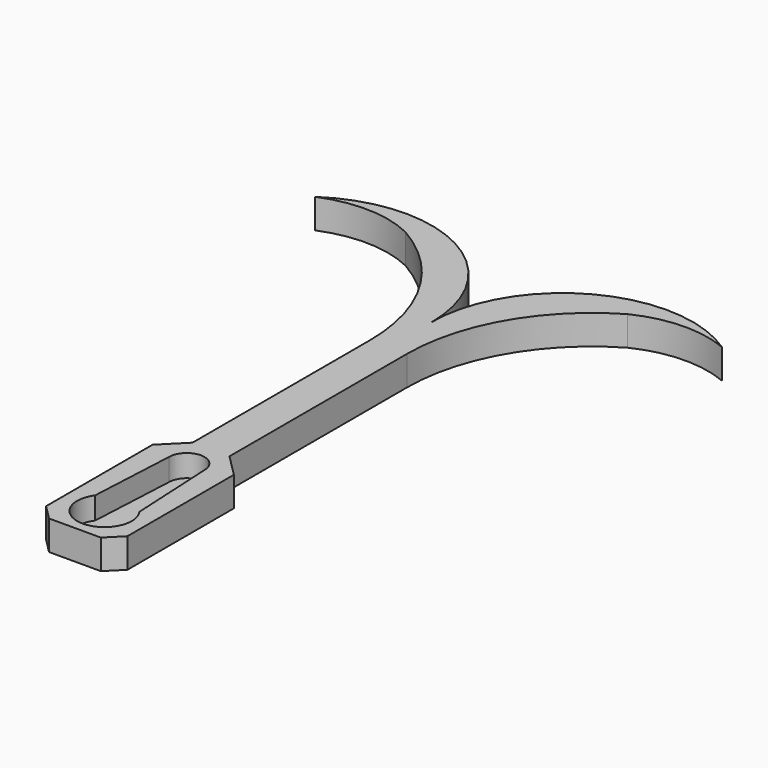
from build123d import *

# Parameters (mm, degrees)
PAD_DEPTH    = 4
POCKET_DEPTH = 3


with BuildPart() as part:
    # Sketch → Pad (new body)
    with BuildSketch(Plane.XY):
        with BuildLine():
            Line((2.5, 18), (2.5, 48))
            ThreePointArc((15.021703, 69.663151), (5.855631, 60.510847), (2.5, 48))
            ThreePointArc((27.5, 70), (21.224622, 71.173643), (15.021703, 69.663151))
            ThreePointArc((27.5, 70), (9.351891, 70.925767), (0, 55.345233))
            ThreePointArc((0, 55.345233), (-9.351891, 70.925767), (-27.5, 70))
            ThreePointArc((-15.021703, 69.663151), (-21.224622, 71.173643), (-27.5, 70))
            ThreePointArc((-2.5, 48), (-5.855631, 60.510847), (-15.021703, 69.663151))
            Line((-2.5, 48), (-2.5, 18))
            Line((-2.5, 18), (-5.5, 15))
            Line((-5.5, 15), (-5.5, -3))
            Line((-5.5, -3), (-3.5, -5))
            Line((-3.5, -5), (3.5, -5))
            Line((3.5, -5), (5.5, -3))
            Line((5.5, -3), (5.5, 15))
            Line((5.5, 15), (2.5, 18))
        make_face()
    extrude(amount=PAD_DEPTH)

    # Sketch001 → Pocket (cut)
    with BuildSketch(Plane.XY.offset(4)):
        with BuildLine():
            ThreePointArc((-3, 2.165641), (0, -3.7), (3, 2.165641))
            Line((2.4, 13.90001), (3, 2.165641))
            ThreePointArc((2.4, 13.90001), (0, 16.3), (-2.4, 13.90001))
            Line((-3, 2.165641), (-2.4, 13.90001))
        make_face()
    extrude(amount=-POCKET_DEPTH, mode=Mode.SUBTRACT)


solid = part.part
